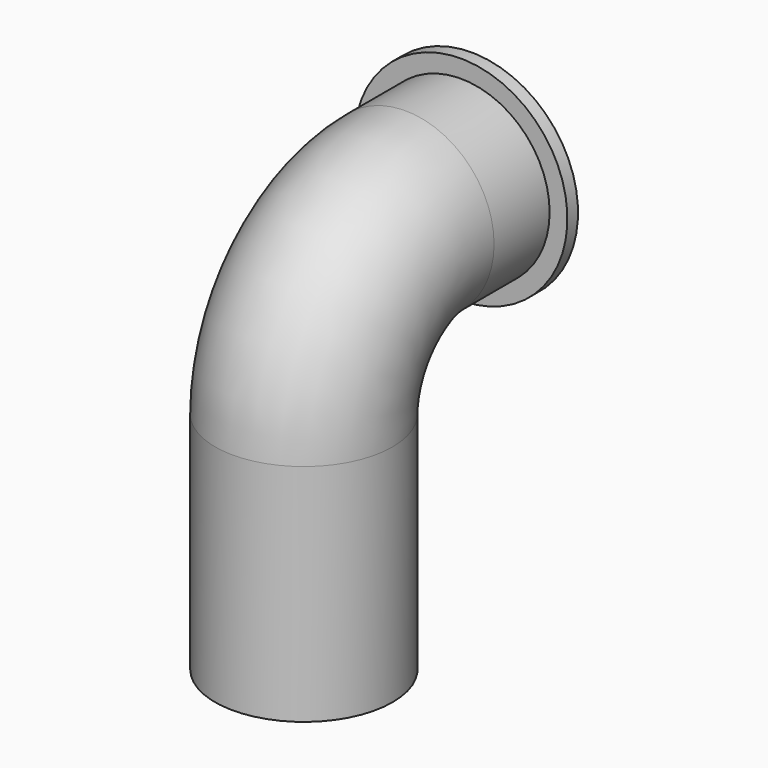
from build123d import *

# Parameters (mm, degrees)
F0_R     = 20
F0_R_2   = 16.5
F3_R     = 24
F3_R_2   = 20
F4_DEPTH = 3


with BuildPart() as f2:
    # F2: sweep along a path in F1
    with BuildLine(Plane.YZ) as f2_path:
        Line((47.214776, 79.218834), (28.573904, 79.218834))
        ThreePointArc((28.573904, 79.218834), (8.369103, 70.849732), (0, 50.64493))
        Line((0, 50.64493), (0, 0))
    # F0 (on Top) → F2 (sweep)
    with BuildSketch(Plane.XY):
        Circle(F0_R)
        Circle(F0_R_2, mode=Mode.SUBTRACT)
    sweep(path=f2_path.line)

    # F3 (on face) → F4 (join)
    with BuildSketch(Plane(origin=(0, 47.214776, 0), x_dir=(-1, 0, 0), z_dir=(0, 1, 0))):
        with Locations((0, 79.218834)):
            Circle(F3_R)
        with Locations((0, 79.218834)):
            Circle(F3_R_2, mode=Mode.SUBTRACT)
    extrude(amount=-F4_DEPTH)


solid = f2.part
